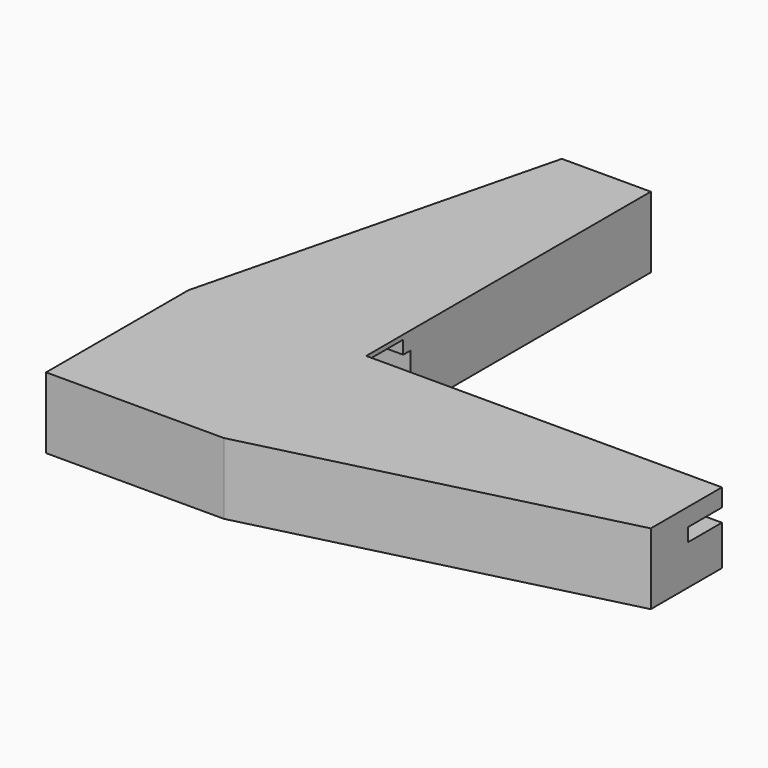
from build123d import *

# Parameters (mm, degrees)
F1_DEPTH = 4
F2_W     = 5
F2_H     = 1.5
F2_W_2   = 0.1
F2_H_2   = 1.3
F2_W_3   = 4.7
F3_DEPTH = 20
F4_DEPTH = 60


with BuildPart() as f1:
    # F0 (on Top) → F1 (new body, symmetric)
    with BuildSketch(Plane.XY):
        Polygon((40, 0), (0, 0), (0, 40), (-10, 40), (-20, 0), (-20, -20), (0, -20), (40, -10), align=None)
    extrude(amount=F1_DEPTH, both=True)

    # F2 (on face) → F3 (cut, through all)
    with BuildSketch(Plane(origin=(-20, 0, 0), x_dir=(0, -1, 0), z_dir=(-1, 0, 0))):
        Polygon((-5.2, 2), (-6.2, 2), (-6.2, -2), (-5.2, -2), (-5.2, -3.5), (9.8, -3.5), (9.8, -2), (10.8, -2), (10.8, 2), (9.8, 2), (9.8, 3.5), (-5.2, 3.5), align=None)
        with Locations((2.3, 1.25)):
            Rectangle(F2_W, F2_H, mode=Mode.SUBTRACT)
        with Locations((-0.05, 1.25)):
            Rectangle(F2_W_2, F2_H_2)
        with Locations((2.35, 1.25)):
            Rectangle(F2_W_3, F2_H_2)
        Polygon((4.8, 2), (0, 2), (0, 1.9), (4.7, 1.9), (4.7, 0.6), (0, 0.6), (0, 0.5), (4.8, 0.5), align=None)
        Polygon((0, 1.9), (0, 2), (-0.2, 2), (-0.2, 0.5), (0, 0.5), (0, 0.6), (-0.1, 0.6), (-0.1, 1.9), align=None)
    extrude(amount=-F3_DEPTH, mode=Mode.SUBTRACT)

    # F2 (on face) → F4 (cut, through all)
    with BuildSketch(Plane(origin=(-20, 0, 0), x_dir=(0, -1, 0), z_dir=(-1, 0, 0))):
        Polygon((4.8, 2), (0, 2), (0, 1.9), (4.7, 1.9), (4.7, 0.6), (0, 0.6), (0, 0.5), (4.8, 0.5), align=None)
        with Locations((2.35, 1.25)):
            Rectangle(F2_W_3, F2_H_2)
        with Locations((-0.05, 1.25)):
            Rectangle(F2_W_2, F2_H_2)
        Polygon((0, 1.9), (0, 2), (-0.2, 2), (-0.2, 0.5), (0, 0.5), (0, 0.6), (-0.1, 0.6), (-0.1, 1.9), align=None)
    extrude(amount=-F4_DEPTH, mode=Mode.SUBTRACT)


solid = f1.part
